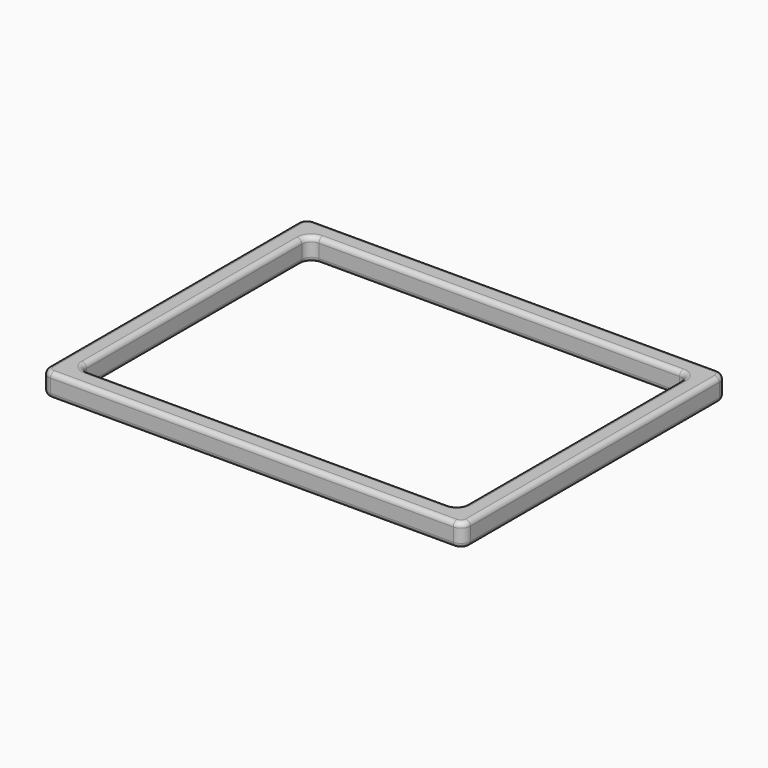
from build123d import *

# Parameters (mm, degrees)
F0_W     = 44.2
F0_H     = 34.6
F0_W_2   = 39.8
F0_H_2   = 30.2
F1_DEPTH = 2.4
F2_R     = 1
F3_R     = 0.5


with BuildPart() as f1:
    # F0 (on Top) → F1 (new body)
    with BuildSketch(Plane.XY):
        Rectangle(F0_W, F0_H)
        Rectangle(F0_W_2, F0_H_2, mode=Mode.SUBTRACT)
    extrude(amount=F1_DEPTH)

    # F2
    f2_edges = [f1.edges().sort_by_distance(p)[0] for p in [
        (22.1, -17.3, 1.2),
        (19.9, -15.1, 1.2),
        (-22.1, -17.3, 1.2),
        (19.9, 15.1, 1.2),
        (-22.1, 17.3, 1.2),
        (-19.9, 15.1, 1.2),
        (-19.9, -15.1, 1.2),
        (22.1, 17.3, 1.2),
    ]]
    fillet(f2_edges, radius=F2_R)

    # F3
    f3_edges = [f1.edges().sort_by_distance(p)[0] for p in [
        (22.1, 0, 2.4),
        (21.807107, -17.007107, 2.4),
        (21.807107, 17.007107, 2.4),
        (0, -17.3, 2.4),
        (0, 17.3, 2.4),
        (-21.807107, -17.007107, 2.4),
        (-21.807107, 17.007107, 2.4),
        (-22.1, 0, 2.4),
        (-19.9, 0, 2.4),
        (-19.607107, -14.807107, 2.4),
        (-19.607107, 14.807107, 2.4),
        (0, -15.1, 2.4),
        (0, 15.1, 2.4),
        (19.607107, -14.807107, 2.4),
        (19.607107, 14.807107, 2.4),
        (19.9, 0, 2.4),
        (22.1, 0, 0),
        (21.807107, -17.007107, 0),
        (21.807107, 17.007107, 0),
        (0, -17.3, 0),
        (0, 17.3, 0),
        (-21.807107, -17.007107, 0),
        (-21.807107, 17.007107, 0),
        (-22.1, 0, 0),
        (-19.9, 0, 0),
        (-19.607107, -14.807107, 0),
        (-19.607107, 14.807107, 0),
        (0, -15.1, 0),
        (0, 15.1, 0),
        (19.607107, -14.807107, 0),
        (19.607107, 14.807107, 0),
        (19.9, 0, 0),
    ]]
    fillet(f3_edges, radius=F3_R)


solid = f1.part
